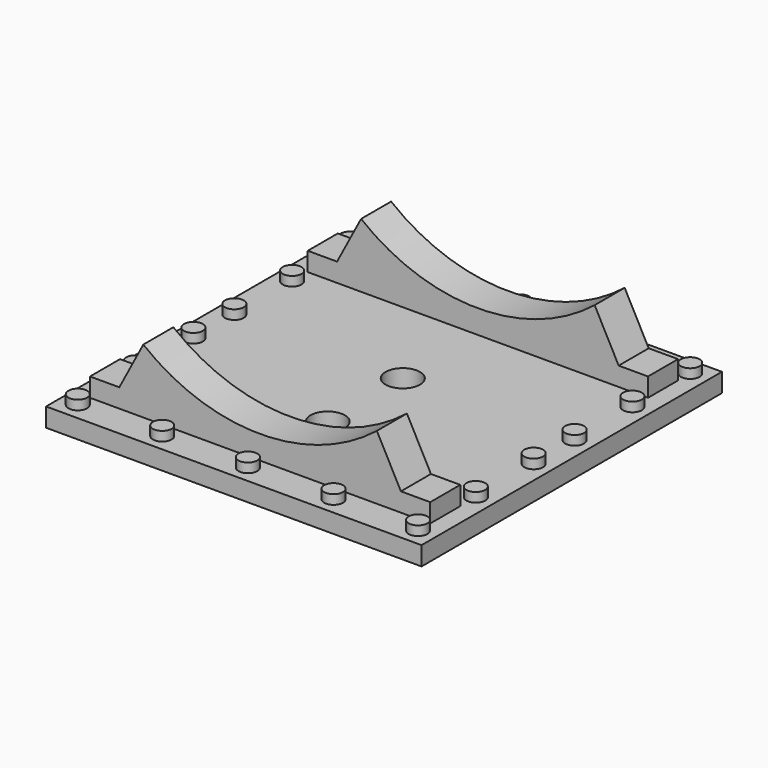
from build123d import *

# Parameters (mm, degrees)
F1_W      = 24
F1_H      = 24
F2_DEPTH  = 1.2
F3_R      = 0.6
F4_DEPTH  = 0.6
F7_DEPTH  = 2.4
F9_R      = 12
F10_DEPTH = 18.75
F11_R     = 1.1
F12_DEPTH = 1.201


with BuildPart() as f2:
    # F1 (on Top) → F2 (new body)
    with BuildSketch(Plane.XY):
        Rectangle(F1_W, F1_H)
    extrude(amount=F2_DEPTH)

    # F3 (on face) → F4 (join)
    with BuildSketch(Plane.XY.offset(1.2)):
        with Locations((-10.875, 10.875)):
            Circle(F3_R)
        with Locations((-10.875, 6.255)):
            Circle(F3_R)
        with Locations((-10.875, 1.635)):
            Circle(F3_R)
        with Locations((-10.875, -1.635)):
            Circle(F3_R)
        with Locations((-10.875, -6.255)):
            Circle(F3_R)
        with Locations((-10.875, -10.875)):
            Circle(F3_R)
        with Locations((-5.475, 10.875)):
            Circle(F3_R)
        with Locations((0, 10.875)):
            Circle(F3_R)
        with Locations((5.475, 10.875)):
            Circle(F3_R)
        with Locations((10.875, 10.875)):
            Circle(F3_R)
        with Locations((10.875, 6.255)):
            Circle(F3_R)
        with Locations((10.875, 1.635)):
            Circle(F3_R)
        with Locations((10.875, -1.635)):
            Circle(F3_R)
        with Locations((10.875, -6.255)):
            Circle(F3_R)
        with Locations((10.875, -10.875)):
            Circle(F3_R)
        with Locations((0, -10.875)):
            Circle(F3_R)
        with Locations((5.475, -10.875)):
            Circle(F3_R)
        with Locations((-5.475, -10.875)):
            Circle(F3_R)
    extrude(amount=F4_DEPTH)

    # F6 (on offset) → F7 (join)
    with BuildSketch(Plane.XZ.offset(7.5)):
        with BuildLine():
            ThreePointArc((6.75, 6.6571460289), (0, 4.2), (-6.75, 6.6571460289))
            Line((-6.75, 6.6571460289), (-9, 2.4))
            Line((-9, 2.4), (-10.875, 2.4))
            Line((-10.875, 2.4), (-10.875, 1.2))
            Line((-10.875, 1.2), (10.875, 1.2))
            Line((10.875, 1.2), (10.875, 2.4))
            Line((10.875, 2.4), (9, 2.4))
            Line((9, 2.4), (6.75, 6.6571460289))
        make_face()
    extrude(amount=F7_DEPTH)

    # F8: F2 across plane


with BuildPart() as f2_1:
    add(f2.part)
    add(f2.part.mirror(Plane.XZ))

    # F9 (on offset) → F10 (cut, symmetric)
    with BuildSketch(Plane.XZ.offset(7.5)):
        with Locations((0, 14.7)):
            Circle(F9_R)
    extrude(amount=F10_DEPTH, both=True, mode=Mode.SUBTRACT)

    # F11 (on face) → F12 (cut, through all)
    with BuildSketch(Plane.XY.offset(1.2)):
        with Locations((0, -4.5)):
            Circle(F11_R)
        with Locations((0, 1.5)):
            Circle(F11_R)
    extrude(amount=-F12_DEPTH, mode=Mode.SUBTRACT)


solid = f2_1.part
